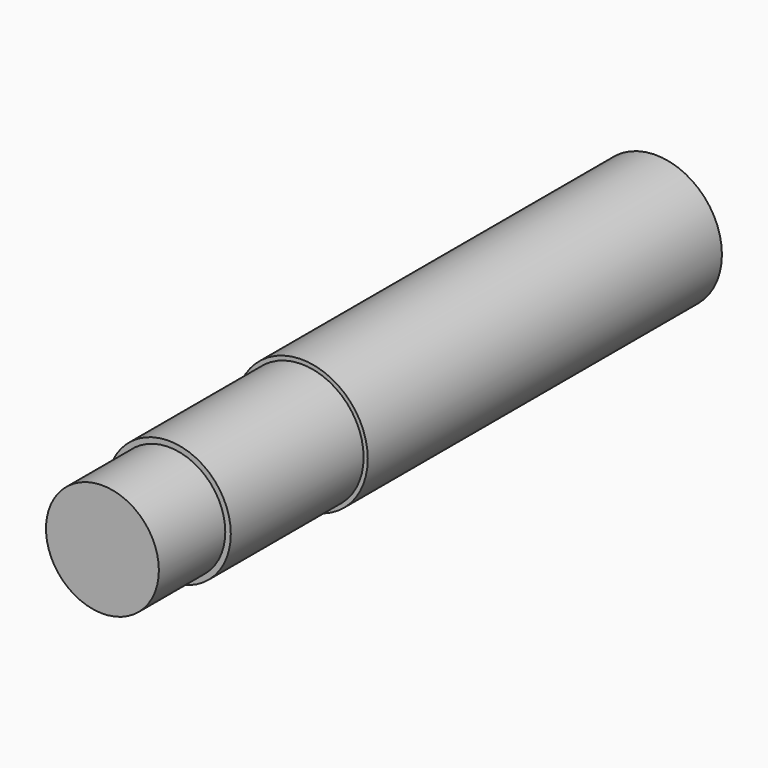
from build123d import *

# Parameters (mm, degrees)
F0_R     = 2.5908
F3_DEPTH = 31.75
F1_R     = 2.8448
F4_DEPTH = 27.94
F2_R     = 3.0353
F5_DEPTH = 20.32


with BuildPart() as f3:
    # F0 (on Front) → F3 (new body)
    with BuildSketch(Plane.XZ):
        Circle(F0_R)
    extrude(amount=F3_DEPTH)

    # F1 (on Front) → F4 (join)
    with BuildSketch(Plane.XZ):
        Circle(F1_R)
    extrude(amount=F4_DEPTH)

    # F2 (on Front) → F5 (join)
    with BuildSketch(Plane.XZ):
        Circle(F2_R)
    extrude(amount=F5_DEPTH)


solid = f3.part
